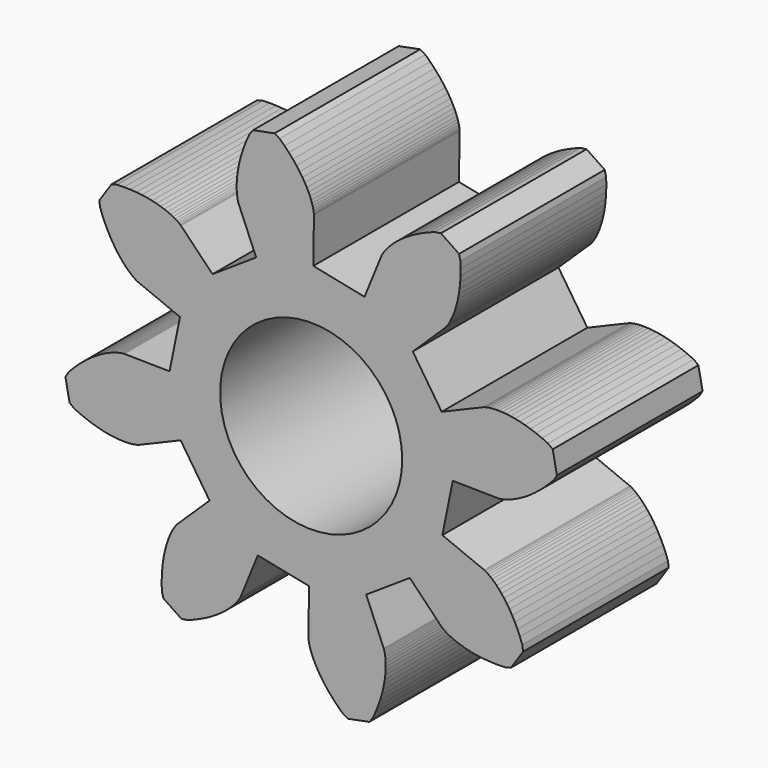
from build123d import *

# Parameters (mm, degrees)
F0_R     = 4
F1_DEPTH = 8


with BuildPart() as f1:
    # F0 (on Front) → F1 (new body)
    with BuildSketch(Plane.XZ):
        Polygon((-5.763512, 2.345519), (-6.221808, 0.092882), (-8.206988, 0.122505), (-8.221042, 0.122105), (-8.250652, 0.120032), (-8.295673, 0.11493), (-8.355859, 0.105452), (-8.430894, 0.090271), (-8.520358, 0.068082), (-8.623758, 0.037599), (-8.74051, -0.002422), (-8.869954, -0.053197), (-9.011344, -0.115899), (-9.163856, -0.191651), (-9.326598, -0.281538), (-9.498603, -0.386572), (-9.678827, -0.507723), (-9.866174, -0.645889), (-10.059473, -0.801907), (-10.257501, -0.976538), (-10.458985, -1.170471), (-10.662591, -1.384323), (-10.797548, -1.608286), (-10.613771, -2.553725), (-10.404741, -2.710824), (-10.13585, -2.83283), (-9.876387, -2.937162), (-9.62736, -3.024893), (-9.389691, -3.097135), (-9.164228, -3.155059), (-8.951743, -3.199874), (-8.752916, -3.232828), (-8.568352, -3.2552), (-8.398566, -3.268304), (-8.243983, -3.273474), (-8.104946, -3.272062), (-7.981703, -3.265431), (-7.874413, -3.254957), (-7.783151, -3.242019), (-7.707893, -3.227984), (-7.648538, -3.214222), (-7.604886, -3.20209), (-7.576653, -3.192918), (-7.563472, -3.188025), (-5.733949, -2.416888), (-4.465161, -4.333806), (-5.889838, -5.716591), (-5.899496, -5.726814), (-5.918968, -5.749218), (-5.947194, -5.784659), (-5.983051, -5.833919), (-6.025374, -5.89771), (-6.072945, -5.976663), (-6.124504, -6.071331), (-6.178762, -6.182188), (-6.23439, -6.309621), (-6.290031, -6.453935), (-6.344306, -6.615344), (-6.395825, -6.793977), (-6.443176, -6.989873), (-6.484951, -7.202977), (-6.519723, -7.433152), (-6.546089, -7.680153), (-6.562633, -7.943665), (-6.56797, -8.223266), (-6.560726, -8.518455), (-6.497792, -8.772249), (-5.699313, -9.310828), (-5.44042, -9.274105), (-5.164014, -9.170239), (-4.906774, -9.060549), (-4.668648, -8.946495), (-4.449506, -8.829521), (-4.249123, -8.711052), (-4.067185, -8.592491), (-3.903294, -8.4752), (-3.756967, -8.360513), (-3.627643, -8.249725), (-3.514681, -8.144075), (-3.417367, -8.044761), (-3.334908, -7.952926), (-3.266448, -7.869653), (-3.211065, -7.795972), (-3.167776, -7.732833), (-3.135534, -7.681132), (-3.113246, -7.641685), (-3.099769, -7.615238), (-3.093909, -7.602456), (-2.345519, -5.763512), (-0.092882, -6.221808), (-0.122505, -8.206988), (-0.122105, -8.221042), (-0.120032, -8.250652), (-0.114929, -8.295673), (-0.105452, -8.355859), (-0.09027, -8.430895), (-0.068082, -8.520358), (-0.037599, -8.623758), (0.002422, -8.74051), (0.053197, -8.869954), (0.115899, -9.011344), (0.191651, -9.163856), (0.281538, -9.326598), (0.386573, -9.498603), (0.507724, -9.678827), (0.645889, -9.866174), (0.801907, -10.059473), (0.976538, -10.257502), (1.170472, -10.458985), (1.384323, -10.662591), (1.608286, -10.797549), (2.553726, -10.613771), (2.710824, -10.404741), (2.83283, -10.13585), (2.937163, -9.876387), (3.024893, -9.627361), (3.097135, -9.389691), (3.155059, -9.164228), (3.199874, -8.951743), (3.232828, -8.752916), (3.2552, -8.568352), (3.268304, -8.398566), (3.273474, -8.243984), (3.272062, -8.104946), (3.265431, -7.981703), (3.254957, -7.874413), (3.242019, -7.783152), (3.227984, -7.707894), (3.214223, -7.648538), (3.202091, -7.604887), (3.192919, -7.576654), (3.188025, -7.563473), (2.416888, -5.733949), (4.333806, -4.465161), (5.716592, -5.889838), (5.726814, -5.899496), (5.749218, -5.918969), (5.784659, -5.947194), (5.833919, -5.983051), (5.89771, -6.025375), (5.976664, -6.072946), (6.071332, -6.124505), (6.182189, -6.178762), (6.309622, -6.23439), (6.453936, -6.290031), (6.615344, -6.344306), (6.793977, -6.395825), (6.989874, -6.443177), (7.202978, -6.484952), (7.433152, -6.519723), (7.680154, -6.546089), (7.943665, -6.562633), (8.223266, -6.56797), (8.518455, -6.560726), (8.772249, -6.497792), (9.310829, -5.699313), (9.274105, -5.44042), (9.170239, -5.164014), (9.060549, -4.906774), (8.946495, -4.668649), (8.829521, -4.449507), (8.711052, -4.249123), (8.592492, -4.067185), (8.475201, -3.903294), (8.360514, -3.756968), (8.249726, -3.627643), (8.144075, -3.514681), (8.044761, -3.417368), (7.952926, -3.334908), (7.869653, -3.266448), (7.795972, -3.211066), (7.732834, -3.167776), (7.681132, -3.135534), (7.641685, -3.113246), (7.615238, -3.099769), (7.602457, -3.093909), (5.763512, -2.345519), (6.221808, -0.092882), (8.206988, -0.122505), (8.221042, -0.122105), (8.250653, -0.120032), (8.295673, -0.11493), (8.355859, -0.105452), (8.430895, -0.09027), (8.520359, -0.068082), (8.623758, -0.037599), (8.74051, 0.002422), (8.869954, 0.053197), (9.011344, 0.115899), (9.163856, 0.191651), (9.326598, 0.281538), (9.498603, 0.386572), (9.678827, 0.507723), (9.866174, 0.645889), (10.059473, 0.801907), (10.257502, 0.976538), (10.458986, 1.170471), (10.662591, 1.384323), (10.797549, 1.608286), (10.613772, 2.553726), (10.404741, 2.710824), (10.13585, 2.83283), (9.876387, 2.937162), (9.627361, 3.024893), (9.389691, 3.097135), (9.164228, 3.155059), (8.951743, 3.199874), (8.752916, 3.232828), (8.568352, 3.2552), (8.398566, 3.268304), (8.243984, 3.273474), (8.104946, 3.272062), (7.981704, 3.265431), (7.874413, 3.254957), (7.783152, 3.242019), (7.707894, 3.227984), (7.648539, 3.214223), (7.604887, 3.20209), (7.576654, 3.192918), (7.563473, 3.188025), (5.73395, 2.416888), (4.465161, 4.333806), (5.889839, 5.716592), (5.899496, 5.726814), (5.918969, 5.749218), (5.947194, 5.784659), (5.983051, 5.833919), (6.025375, 5.89771), (6.072946, 5.976664), (6.124505, 6.071332), (6.178762, 6.182189), (6.23439, 6.309621), (6.290032, 6.453935), (6.344307, 6.615344), (6.395825, 6.793977), (6.443177, 6.989874), (6.484952, 7.202977), (6.519723, 7.433152), (6.546089, 7.680153), (6.562633, 7.943665), (6.56797, 8.223266), (6.560726, 8.518455), (6.497793, 8.772249), (5.699313, 9.310829), (5.440421, 9.274105), (5.164015, 9.170239), (4.906774, 9.060549), (4.668649, 8.946495), (4.449507, 8.829521), (4.249123, 8.711052), (4.067185, 8.592491), (3.903294, 8.475201), (3.756968, 8.360513), (3.627644, 8.249726), (3.514681, 8.144075), (3.417368, 8.044761), (3.334909, 7.952926), (3.266448, 7.869653), (3.211066, 7.795972), (3.167776, 7.732833), (3.135534, 7.681132), (3.113246, 7.641685), (3.09977, 7.615238), (3.093909, 7.602457), (2.345519, 5.763512), (0.092882, 6.221808), (0.122505, 8.206988), (0.122106, 8.221042), (0.120032, 8.250653), (0.11493, 8.295673), (0.105452, 8.355859), (0.090271, 8.430895), (0.068083, 8.520358), (0.0376, 8.623758), (-0.002422, 8.74051), (-0.053196, 8.869954), (-0.115899, 9.011344), (-0.191651, 9.163856), (-0.281538, 9.326598), (-0.386572, 9.498603), (-0.507723, 9.678827), (-0.645888, 9.866174), (-0.801907, 10.059473), (-0.976538, 10.257502), (-1.170471, 10.458986), (-1.384323, 10.662591), (-1.608286, 10.797549), (-2.553725, 10.613772), (-2.710824, 10.404741), (-2.83283, 10.13585), (-2.937162, 9.876387), (-3.024893, 9.627361), (-3.097135, 9.389691), (-3.155059, 9.164228), (-3.199874, 8.951743), (-3.232828, 8.752916), (-3.255199, 8.568352), (-3.268304, 8.398566), (-3.273474, 8.243984), (-3.272061, 8.104946), (-3.265431, 7.981703), (-3.254956, 7.874413), (-3.242019, 7.783152), (-3.227984, 7.707894), (-3.214222, 7.648538), (-3.20209, 7.604887), (-3.192918, 7.576654), (-3.188025, 7.563473), (-2.416888, 5.733949), (-4.333805, 4.465161), (-5.716591, 5.889838), (-5.726814, 5.899496), (-5.749218, 5.918969), (-5.784659, 5.947194), (-5.833919, 5.983051), (-5.89771, 6.025375), (-5.976663, 6.072946), (-6.071331, 6.124505), (-6.182188, 6.178762), (-6.309621, 6.23439), (-6.453935, 6.290031), (-6.615344, 6.344306), (-6.793976, 6.395825), (-6.989873, 6.443177), (-7.202977, 6.484952), (-7.433152, 6.519723), (-7.680153, 6.546089), (-7.943665, 6.562633), (-8.223265, 6.56797), (-8.518455, 6.560726), (-8.772249, 6.497792), (-9.310828, 5.699313), (-9.274105, 5.440421), (-9.170239, 5.164014), (-9.060549, 4.906774), (-8.946495, 4.668649), (-8.829521, 4.449507), (-8.711052, 4.249123), (-8.592491, 4.067185), (-8.4752, 3.903294), (-8.360513, 3.756968), (-8.249725, 3.627643), (-8.144075, 3.514681), (-8.044761, 3.417368), (-7.952925, 3.334908), (-7.869653, 3.266448), (-7.795971, 3.211066), (-7.732833, 3.167776), (-7.681131, 3.135534), (-7.641685, 3.113246), (-7.615238, 3.099769), (-7.602456, 3.093909), align=None)
        Circle(F0_R, mode=Mode.SUBTRACT)
    extrude(amount=F1_DEPTH)


solid = f1.part
